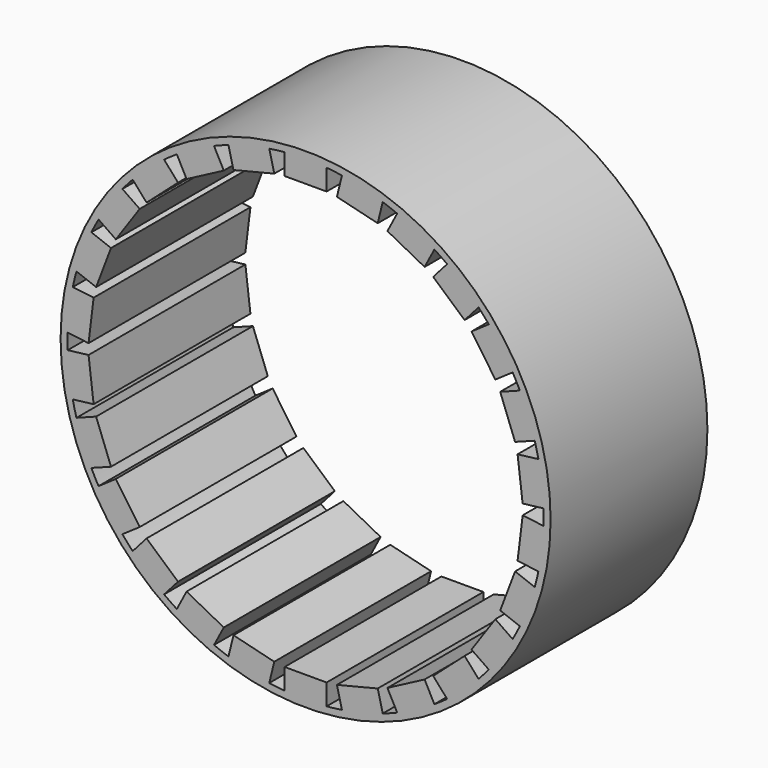
from build123d import *

# Parameters (mm, degrees)
F0_R     = 70
F1_DEPTH = 56
F2_COUNT = 26


with BuildPart() as f1:
    # F0 (on Front) → F1 (new body)
    with BuildSketch(Plane.XZ):
        Circle(F0_R)
        with BuildLine():
            ThreePointArc((6, 67.7347768875), (0, -68), (-6, 67.7347768875))
            Line((-6, 67.7347768875), (-6, 61.7347768875))
            Line((-6, 61.7347768875), (6, 61.7347768875))
            Line((6, 61.7347768875), (6, 67.7347768875))
        make_face(mode=Mode.SUBTRACT)
    extrude(amount=F1_DEPTH)

    # F2: F1 ×26 about axis
    f2_axis = Axis((0, 0, 0), (0, 1, 0))


with BuildPart() as f1_1:
    add(f1.part)
    for i in range(1, F2_COUNT):
        add(f1.part.rotate(f2_axis, i * 360 / F2_COUNT))


solid = f1_1.part
